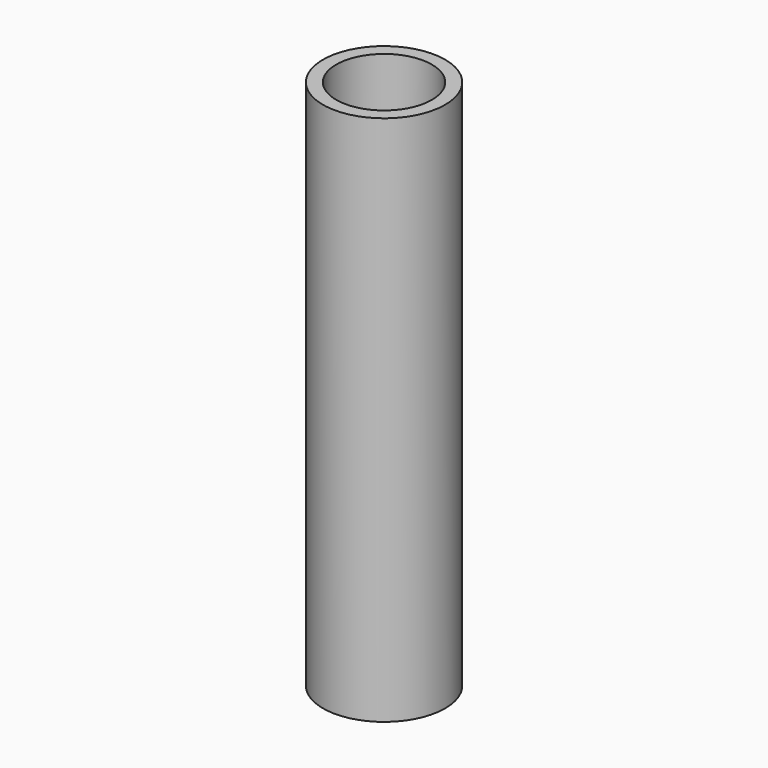
from build123d import *

# Parameters (mm, degrees)
F0_R     = 5.75
F0_R_2   = 4.5
F1_DEPTH = 50
F0_R_3   = 2.25
F2_DEPTH = 1.5


with BuildPart() as f1:
    # F0 (on Top) → F1 (new body)
    with BuildSketch(Plane.XY):
        Circle(F0_R)
        Circle(F0_R_2, mode=Mode.SUBTRACT)
    extrude(amount=F1_DEPTH)

    # F0 (on Top) → F2 (join)
    with BuildSketch(Plane.XY):
        Circle(F0_R)
        Circle(F0_R_2, mode=Mode.SUBTRACT)
        Circle(F0_R_2)
        Circle(F0_R_3, mode=Mode.SUBTRACT)
    extrude(amount=F2_DEPTH)


solid = f1.part
